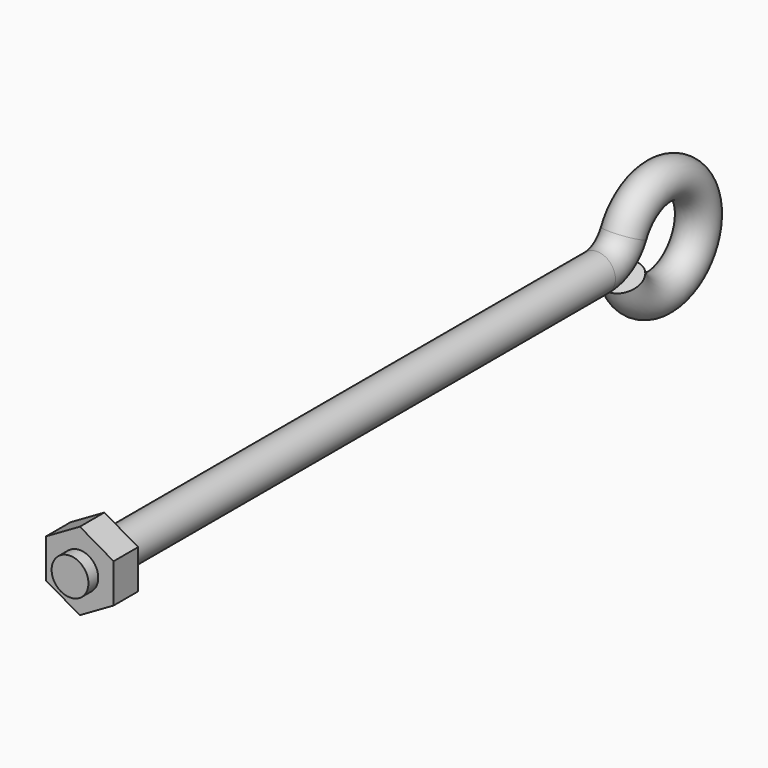
from build123d import *

# Parameters (mm, degrees)
F1_R     = 4.7625
F3_R     = 4.7625
F4_DEPTH = 11.1125
F5_DEPTH = 3.175


with BuildPart() as f2:
    # F2: sweep along a path in F0
    with BuildLine(Plane.YZ) as f2_path:
        Line((0, 0), (170.4195368579, 0))
        ThreePointArc((170.4195368579, 0), (175.5108635164, 1.4749057237), (179.0254496331, 5.4428571429))
        ThreePointArc((179.0254496331, 5.4428571429), (203.1860215789, -0.5956983292), (178.565903716, -4.3436558202))
    # F1 (on Front) → F2 (sweep)
    with BuildSketch(Plane.XZ):
        Circle(F1_R)
    sweep(path=f2_path.line)


with BuildPart() as f4:
    # F3 (on face) → F4 (new body)
    with BuildSketch(Plane.XZ):
        Polygon((8.73125, -5.0409895379), (8.73125, 5.0409895379), (0, 10.0819790757), (-8.73125, 5.0409895379), (-8.73125, -5.0409895379), (0, -10.0819790757), align=None)
        Circle(F3_R, mode=Mode.SUBTRACT)
    extrude(amount=-F4_DEPTH)

    # F5 (cut): a face of the model
    f5_faces = [f4.faces().sort_by_distance(p)[0] for p in [
        (8.4645059064, 0, 0),
    ]]
    extrude(f5_faces, amount=-F5_DEPTH, mode=Mode.SUBTRACT)


solid = Compound([f2.part, f4.part])
